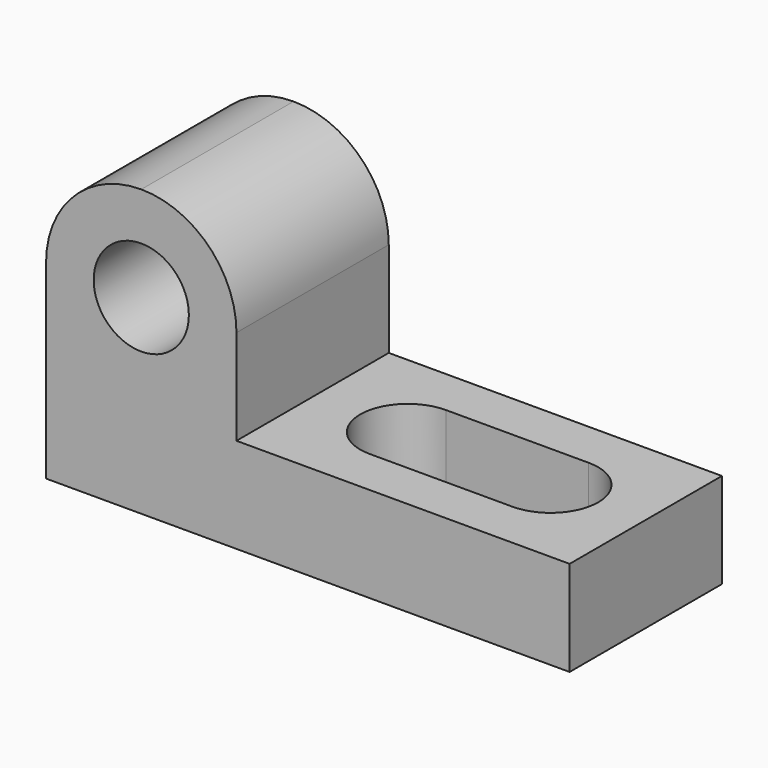
from build123d import *

# Parameters (mm, degrees)
F0_W     = 69.85
F0_H     = 38.1
F1_DEPTH = 25.4
F2_W     = 44.45
F2_H     = 25.4
F3_DEPTH = 31.75
F5_DEPTH = 25.4
F6_R     = 6.35
F7_DEPTH = 31.75


with BuildPart() as f1:
    # F0 (on Front) → F1 (new body)
    with BuildSketch(Plane.XZ):
        with Locations((-34.925, 19.05)):
            Rectangle(F0_W, F0_H)
    extrude(amount=F1_DEPTH)

    # F2 (on Front) → F3 (cut)
    with BuildSketch(Plane.XZ):
        with Locations((-22.225, 25.4)):
            Rectangle(F2_W, F2_H)
    extrude(amount=F3_DEPTH, mode=Mode.SUBTRACT)

    # F4 (on face) → F5 (cut)
    with BuildSketch(Plane.XY.offset(12.7)):
        with BuildLine():
            ThreePointArc((-12.6999997035, -19.05), (-8.2098718346, -17.1901279557), (-6.35, -12.7))
            ThreePointArc((-6.35, -12.7), (-8.2098719395, -8.2098719395), (-12.7, -6.35))
            ThreePointArc((-12.7, -6.35), (-19.05, -12.7000001483), (-12.6999997035, -19.05))
        make_face()
        with BuildLine():
            ThreePointArc((-12.6999997035, -19.05), (-19.05, -12.7000001483), (-12.7, -6.35))
            Line((-12.7, -6.35), (-31.7499997035, -6.35))
            ThreePointArc((-31.7499997035, -6.35), (-27.2598718346, -8.2098720443), (-25.4, -12.7))
            ThreePointArc((-25.4, -12.7), (-27.2598718346, -17.1901279557), (-31.7499997035, -19.05))
            Line((-31.7499997035, -19.05), (-12.6999997035, -19.05))
        make_face()
        with BuildLine():
            ThreePointArc((-25.4, -12.7), (-27.2598718346, -8.2098720443), (-31.7499997035, -6.35))
            ThreePointArc((-31.7499997035, -6.35), (-38.1, -12.7), (-31.7499997035, -19.05))
            ThreePointArc((-31.7499997035, -19.05), (-27.2598718346, -17.1901279557), (-25.4, -12.7))
        make_face()
    extrude(amount=-F5_DEPTH, mode=Mode.SUBTRACT)

    # F6 (on face) → F7 (cut)
    with BuildSketch(Plane.XZ.offset(25.4)):
        with Locations((-57.15, 25.4)):
            Circle(F6_R)
        with BuildLine():
            ThreePointArc((-57.15, 38.1), (-48.1697438789, 34.3802561211), (-44.45, 25.4))
            Line((-44.45, 25.4), (-44.45, 38.1))
            Line((-44.45, 38.1), (-57.15, 38.1))
        make_face()
        with BuildLine():
            ThreePointArc((-69.85, 25.4), (-66.1302561211, 34.3802561211), (-57.15, 38.1))
            Line((-57.15, 38.1), (-69.85, 38.1))
            Line((-69.85, 38.1), (-69.85, 25.4))
        make_face()
    extrude(amount=-F7_DEPTH, mode=Mode.SUBTRACT)


solid = f1.part
